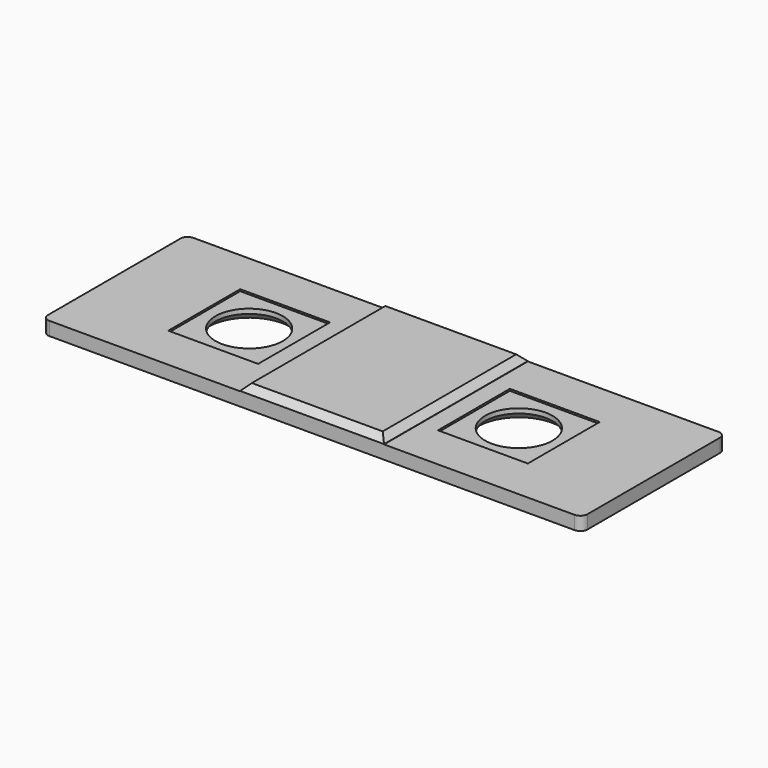
from build123d import *

# Parameters (mm, degrees)
SKETCH_W        = 76.2
SKETCH_H        = 25.4
SKETCH_R        = 4.7625
PAD_DEPTH       = 1.905
SKETCH001_W     = 12.7
SKETCH001_H     = 12.7
POCKET_DEPTH    = 0.254
CHAMFER_SIZE    = 1
FILLET_R        = 1
SKETCH002_W     = 20.32
SKETCH002_H     = 25.4
PAD001_DEPTH    = 0.9525
CHAMFER001_SIZE = 0.9144


with BuildPart() as part:
    # Sketch → Pad (new body)
    with BuildSketch(Plane.XY):
        Rectangle(SKETCH_W, SKETCH_H)
        with Locations((-19.05, 0)):
            Circle(SKETCH_R, mode=Mode.SUBTRACT)
        with Locations((19.05, 0)):
            Circle(SKETCH_R, mode=Mode.SUBTRACT)
    extrude(amount=PAD_DEPTH)

    # Sketch001 → Pocket (cut)
    with BuildSketch(Plane.XY.offset(1.905)):
        with Locations((-19.05, 0)):
            Rectangle(SKETCH001_W, SKETCH001_H)
        with Locations((19.05, 0)):
            Rectangle(SKETCH001_W, SKETCH001_H)
    extrude(amount=-POCKET_DEPTH, mode=Mode.SUBTRACT)

    # Chamfer
    chamfer_edges = [part.edges().sort_by_distance(p)[0] for p in [
        (14.2875, 0, 0),
        (-23.8125, 0, 0),
    ]]
    chamfer(chamfer_edges, length=CHAMFER_SIZE)

    # Fillet
    fillet_edges = [part.edges().sort_by_distance(p)[0] for p in [
        (38.1, 12.7, 0.9525),
        (38.1, -12.7, 0.9525),
        (-38.1, -12.7, 0.9525),
        (-38.1, 12.7, 0.9525),
    ]]
    fillet(fillet_edges, radius=FILLET_R)

    # Sketch002 (on Face5 of Pocket) → Pad001 (join)
    with BuildSketch(Plane.XY.offset(1.905)):
        Rectangle(SKETCH002_W, SKETCH002_H)
    extrude(amount=PAD001_DEPTH)

    # Chamfer001
    chamfer001_edges = [part.edges().sort_by_distance(p)[0] for p in [
        (0, -12.7, 2.8575),
        (-10.16, 0, 2.8575),
        (0, 12.7, 2.8575),
        (10.16, 0, 2.8575),
    ]]
    chamfer(chamfer001_edges, length=CHAMFER001_SIZE)


solid = part.part
